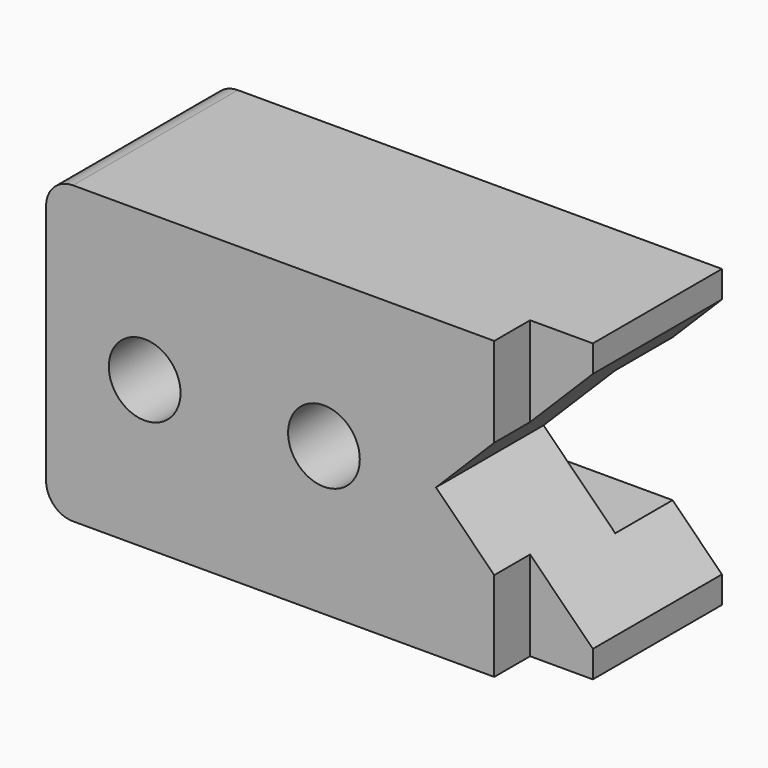
from build123d import *

# Parameters (mm, degrees)
F0_W     = 114
F0_H     = 46
F1_DEPTH = 33
F3_R     = 6
F2_R     = 8
F4_DEPTH = 46.001
F5_W     = 14
F5_H     = 10
F6_DEPTH = 66.001
F7_W     = 114
F7_H     = 32
F8_DEPTH = 16


with BuildPart() as f1:
    # F0 (on Top) → F1 (new body, symmetric)
    with BuildSketch(Plane.XY):
        with Locations((57, 23)):
            Rectangle(F0_W, F0_H)
    extrude(amount=F1_DEPTH, both=True)

    # F3
    f3_edges = [f1.edges().sort_by_distance(p)[0] for p in [
        (0, 23, 33),
        (0, 23, -33),
    ]]
    fillet(f3_edges, radius=F3_R)

    # F2 (on face) → F4 (cut, through all)
    with BuildSketch(Plane.XZ):
        Polygon((114, -27), (114, 27), (87, 0), align=None)
        with Locations((22, 0)):
            Circle(F2_R)
        with Locations((62, 0)):
            Circle(F2_R)
    extrude(amount=-F4_DEPTH, mode=Mode.SUBTRACT)

    # F5 (on face) → F6 (cut, through all)
    with BuildSketch(Plane.XY.offset(33)):
        with Locations((107, 5)):
            Rectangle(F5_W, F5_H)
    extrude(amount=-F6_DEPTH, mode=Mode.SUBTRACT)

    # F7 (on face) → F8 (cut)
    with BuildSketch(Plane(origin=(0, 46, 0), x_dir=(-1, 0, 0), z_dir=(0, 1, 0))):
        with Locations((-57, 0)):
            Rectangle(F7_W, F7_H)
    extrude(amount=-F8_DEPTH, mode=Mode.SUBTRACT)


solid = f1.part
